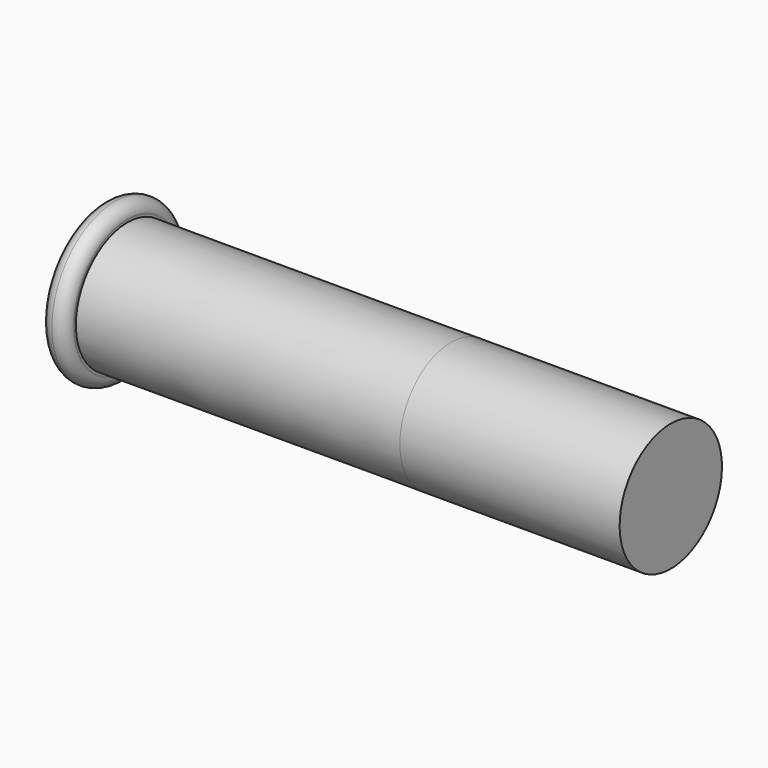
from build123d import *


with BuildPart() as f1:
    # F0 (on Front) → F1 (revolve)
    with BuildSketch(Plane.XZ):
        with BuildLine():
            Line((0, 2.985), (0, 0))
            Line((0, 0), (0.545, 0))
            Line((0.545, 0), (0.545, 2.44))
            ThreePointArc((0.545, 2.44), (0.159627, 2.599627), (0, 2.985))
        make_face()
        with BuildLine():
            ThreePointArc((0.545, 3.53), (0.159627, 3.370373), (0, 2.985))
            ThreePointArc((0, 2.985), (0.159627, 2.599627), (0.545, 2.44))
            Line((0.545, 2.44), (0.545, 3.53))
        make_face()
        with BuildLine():
            Line((0.545, 3.53), (0.545, 2.44))
            ThreePointArc((0.545, 2.44), (0.923439, 2.592815), (1.089653, 2.965564))
            Line((1.089653, 2.965564), (1.089498, 3.008387))
            ThreePointArc((1.089498, 3.008387), (0.922014, 3.378555), (0.545, 3.53))
        make_face()
        with BuildLine():
            Line((0.545, 2.44), (0.545, 0))
            Line((0.545, 0), (1.09, 0))
            Line((1.09, 0), (1.09, 2.87))
            Line((1.09, 2.87), (1.089653, 2.965564))
            ThreePointArc((1.089653, 2.965564), (0.923439, 2.592815), (0.545, 2.44))
        make_face()
        Polygon((1.09, 2.87), (1.09, 0), (15.57, 0), (25.4, 0), (25.4, 2.86), (15.57, 2.86), align=None)
    revolve(axis=Axis((8.33, 0, 0), (1, 0, 0)))


solid = f1.part
